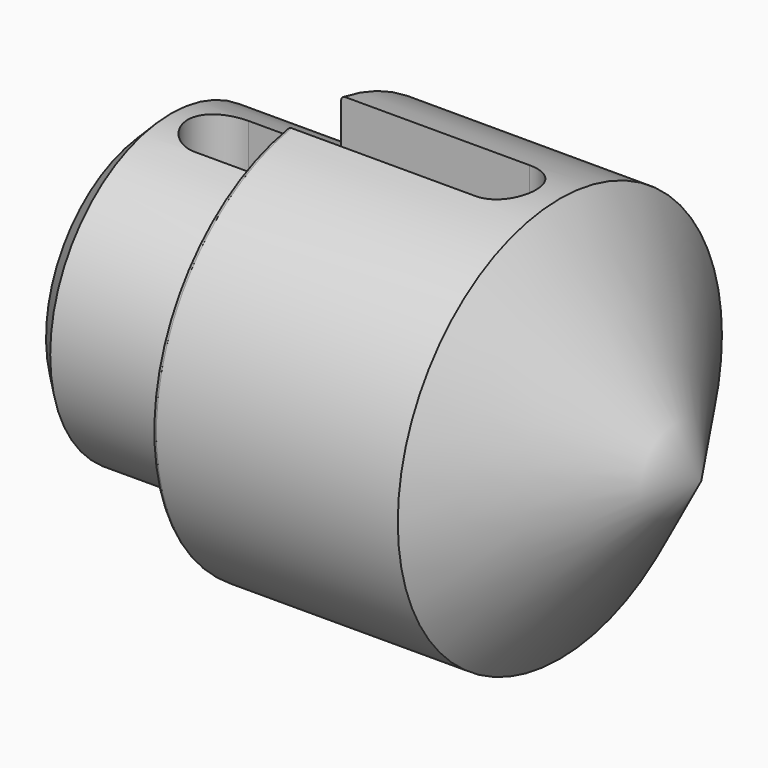
from build123d import *

# Parameters (mm, degrees)
F3_DEPTH = 25.4
F4_SIZE  = 2.54
F5_R     = 0.508


with BuildPart() as f1:
    # F0 (on Front) → F1 (revolve)
    with BuildSketch(Plane.XZ):
        Polygon((0, 18.442093), (0, 0), (67.2157, 0), (49.960807, 24.714644), (20, 24.714644), (20, 18.442093), align=None)
    revolve(axis=Axis((33.60785, 0, 0), (-1, 0, 0)))

    # F2 (on Top) → F3 (cut)
    with BuildSketch(Plane.XY):
        with BuildLine():
            Line((42.952237, 4.098997), (8.683674, 4.098997))
            ThreePointArc((8.683674, 4.098997), (4.584677, 0), (8.683674, -4.098997))
            Line((8.683674, -4.098997), (42.952237, -4.098997))
            ThreePointArc((42.952237, -4.098997), (47.051235, 0), (42.952237, 4.098997))
        make_face()
    extrude(amount=F3_DEPTH, mode=Mode.SUBTRACT)

    # F4
    f4_edges = [f1.edges().sort_by_distance(p)[0] for p in [
        (0, 0, -18.442093),
    ]]
    chamfer(f4_edges, length=F4_SIZE)

    # F5
    f5_edges = [f1.edges().sort_by_distance(p)[0] for p in [
        (20, 0, -24.714644),
    ]]
    fillet(f5_edges, radius=F5_R)


solid = f1.part
